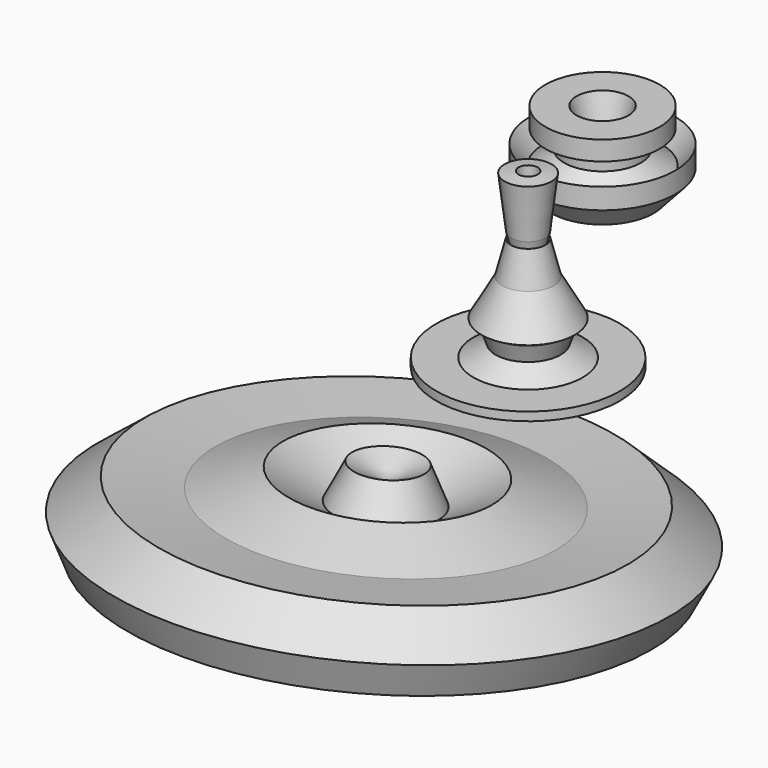
from build123d import *


with BuildPart() as f1:
    # F0 (on Front) → F1 (revolve)
    with BuildSketch(Plane.XZ):
        Polygon((9.0583171695, 28.0581843108), (6.1203795485, 39.6553091705), (4.4915522449, 30.4768476635), (0, 32.9945832491), (0, 0), (32.0979319513, 0), (32.0979319513, 3.0083998572), (19.1091578454, 3.0083998572), (11.3777415827, 7.4926204979), (13.6061028525, 13.6839394666), (16.3258463144, 15.224034898), align=None)
    revolve(axis=Axis((0, 0, 16.4972916245), (0, 0, -1)))


with BuildPart() as f3:
    # F2 (on Front) → F3 (revolve)
    with BuildSketch(Plane.XZ):
        Polygon((3.3663465721, 53.5688661039), (0, 56.192997843), (0, 33.8872000575), (4.1873282753, 34.0710841119), (6.0164295137, 41.7602844536), (8.2032037899, 59.9105134606), (3.3663465721, 60.4932672616), align=None)
    revolve(axis=Axis((0, 0, 45.0400989503), (0, 0, -1)))


with BuildPart() as f5:
    # F4 (on Right) → F5 (revolve)
    with BuildSketch(Plane.YZ):
        Polygon((36.2223647535, 48.0902604759), (32.5816236436, 53.8114197552), (32.5816236436, 34.0474098921), (50.5252666771, 40.0286242366), (58.0667965114, 48.3503118157), (58.0667965114, 55.6317903101), (53.1257949769, 48.8704182208), (45.9927759263, 54.0830078562), (45.9927759263, 60.5727918446), (52.6056885719, 60.5727918446), (52.6056885719, 67.3341602087), (41.683472693, 67.3341602087), align=None)
    revolve(axis=Axis((0, 32.5816236436, 43.9294148237), (0, 0, -1)))


with BuildPart() as f7:
    # F6 (on Right) → F7 (revolve)
    with BuildSketch(Plane.YZ):
        Polygon((-27.7824141085, -10.7123497874), (-45.2059470117, -18.2538814843), (-49.6268458664, -5.7713496499), (-61.7820319216, -10.0763134844), (-65.4900670052, -50.760474056), (-16.080038622, -32.2967320681), (22.9278746992, -43.739054352), (29.1691422462, -32.8168384731), (15.9064494073, -20.0742501765), (-7.2382469662, -20.0742501765), align=None)
    revolve(axis=Axis((0, -63.6360494634, -30.4183937702), (0, -0.0907657736, -0.9958722681)))


solid = Compound([f1.part, f3.part, f5.part, f7.part])
